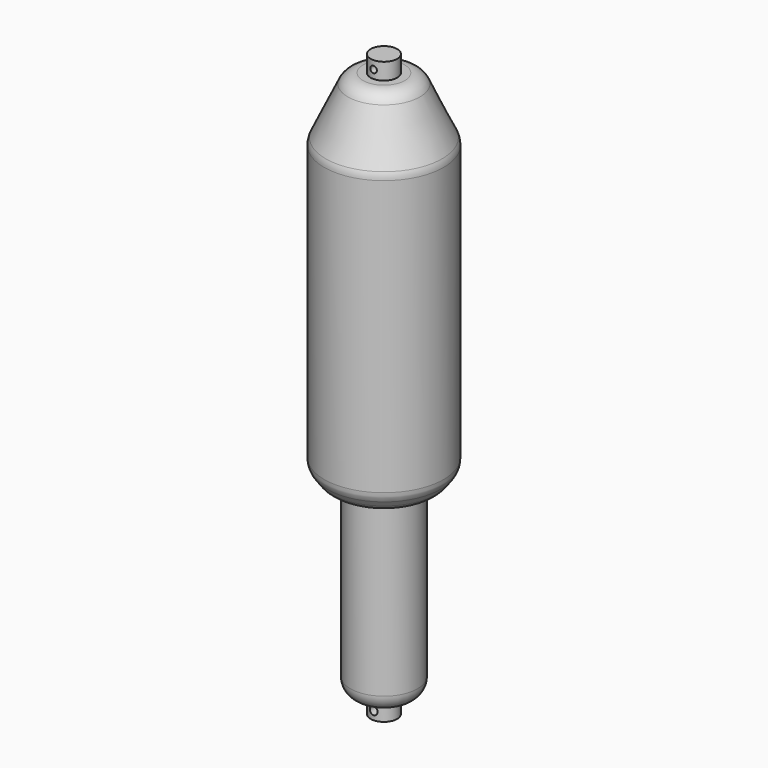
from build123d import *

# Parameters (mm, degrees)
F0_W     = 4
F0_H     = 5
F2_R     = 0.993658
F2_R_2   = 1.178006
F3_DEPTH = 4


with BuildPart() as f1:
    # F0 (on Front) → F1 (revolve)
    with BuildSketch(Plane.XZ):
        with BuildLine():
            Line((-5.79195, -83.654891), (-5.79195, 86.345109))
            Line((-5.79195, 86.345109), (-9.79195, 86.345109))
            Line((-9.79195, 86.345109), (-12.115021, 86.345109))
            ThreePointArc((-12.115021, 86.345109), (-14.796461, 85.565285), (-16.641479, 83.469062))
            Line((-16.641479, 83.469062), (-23.318408, 69.239537))
            ThreePointArc((-23.318408, 69.239537), (-23.672129, 68.203635), (-23.79195, 67.115584))
            Line((-23.79195, 67.115584), (-23.79195, -15.608207))
            ThreePointArc((-23.79195, -15.608207), (-23.546863, -17.154428), (-22.83563, -18.549066))
            Line((-22.83563, -18.549066), (-21.573659, -20.284275))
            ThreePointArc((-21.573659, -20.284275), (-19.798867, -21.798991), (-17.529979, -22.343416))
            Line((-17.529979, -22.343416), (-15.895774, -22.343416))
            Line((-15.895774, -22.343416), (-15.895774, -73.654891))
            ThreePointArc((-15.895774, -73.654891), (-14.431308, -77.190425), (-10.895774, -78.654891))
            Line((-10.895774, -78.654891), (-9.79195, -78.654891))
            Line((-9.79195, -78.654891), (-9.79195, -83.654891))
            Line((-9.79195, -83.654891), (-5.79195, -83.654891))
        make_face()
        with Locations((-7.79195, 88.845109)):
            Rectangle(F0_W, F0_H)
    revolve(axis=Axis((-5.79195, 0, 1.345109), (0, 0, 1)))

    # F2 (on Front) → F3 (cut, symmetric)
    with BuildSketch(Plane.XZ):
        with Locations((-5.790849, 88.851348)):
            Circle(F2_R)
        with Locations((-5.791773, -81.150979)):
            Circle(F2_R_2)
    extrude(amount=F3_DEPTH, both=True, mode=Mode.SUBTRACT)


solid = f1.part
